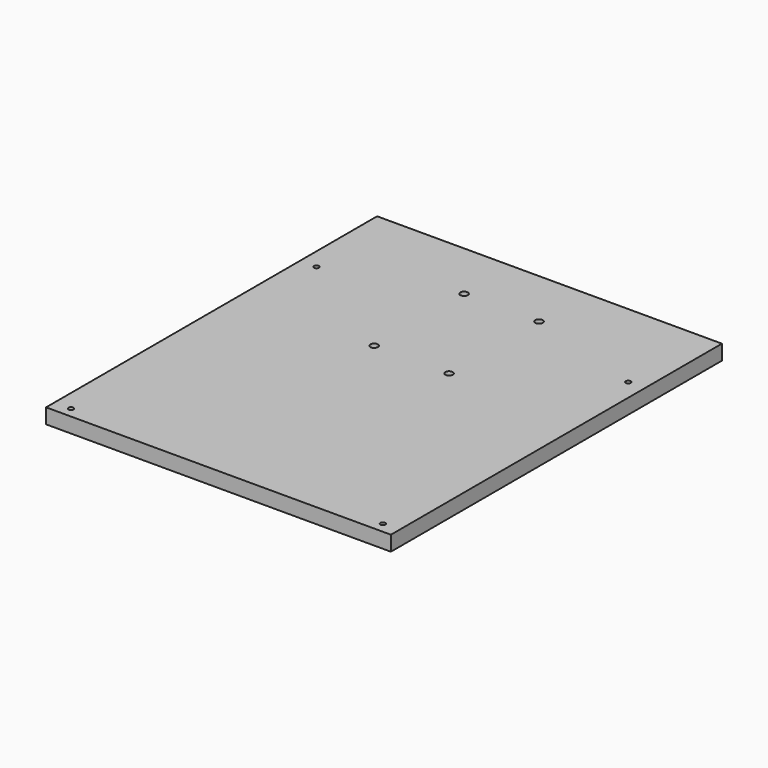
from build123d import *

# Parameters (mm, degrees)
F0_W     = 230
F0_H     = 276
F1_DEPTH = 10
F2_R     = 2.5
F2_R_2   = 1.65
F3_DEPTH = 10.001


with BuildPart() as f1:
    # F0 (on Top) → F1 (new body)
    with BuildSketch(Plane.XY):
        with Locations((70.122263, -3.810093)):
            Rectangle(F0_W, F0_H)
    extrude(amount=F1_DEPTH)

    # F2 (on face) → F3 (cut, through all)
    with BuildSketch(Plane.XY.offset(10)):
        with Locations((45.122263, 94.189907)):
            Circle(F2_R)
        with Locations((95.122263, 94.189907)):
            Circle(F2_R)
        with Locations((45.122263, 19.189907)):
            Circle(F2_R)
        with Locations((95.122263, 19.189907)):
            Circle(F2_R)
        with Locations((-33.877737, 69.889907)):
            Circle(F2_R_2)
        with Locations((174.122263, 69.889907)):
            Circle(F2_R_2)
        with Locations((-33.877737, -134.810093)):
            Circle(F2_R_2)
        with Locations((174.122263, -134.810093)):
            Circle(F2_R_2)
    extrude(amount=-F3_DEPTH, mode=Mode.SUBTRACT)


solid = f1.part
